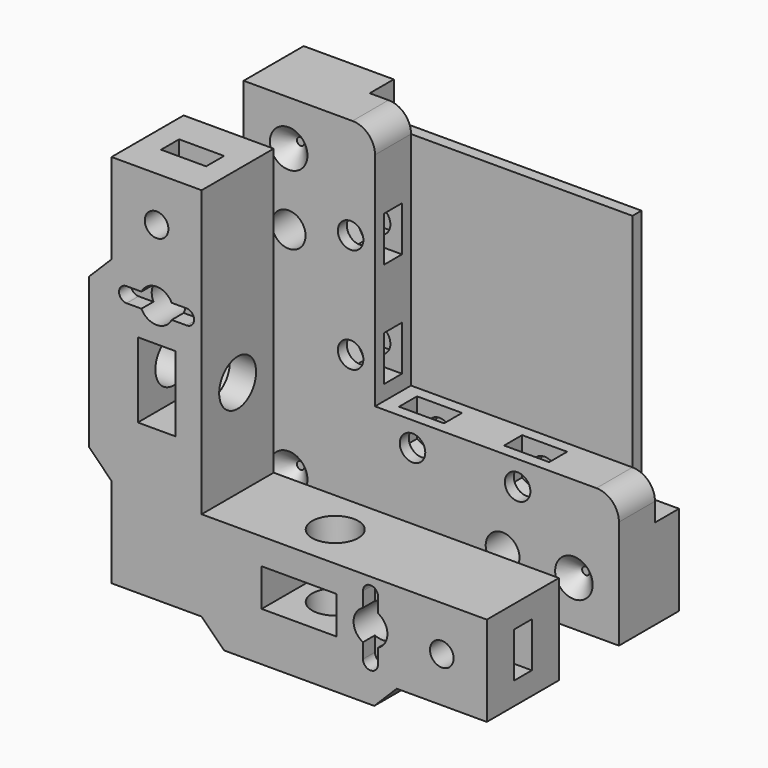
from build123d import *

# Parameters (mm, degrees)
PAD005_DEPTH         = 1.5
PAD004_DEPTH         = 2.5
PAD003_DEPTH         = 2.5
PAD_DEPTH            = 12
SKETCH004_R          = 2.25
POCKET_DEPTH         = 12.001
SKETCH006_R          = 3.075
POCKET002_DEPTH      = 13
SKETCH007_R          = 1.575
POCKET003_DEPTH      = 12.001
SKETCH009_R          = 3.075
POCKET005_DEPTH      = 3.001
POCKET005_DEPTH_BACK = 50.001
SKETCH015_R          = 4
PAD008_DEPTH         = 5
PAD008_TAPER         = 37
POCKET006_DEPTH      = 2
SKETCH002_W          = 35
SKETCH002_H          = 35
PAD001_DEPTH         = 1.5
PAD006_DEPTH         = 4
PAD007_DEPTH         = 1.5
PAD002_DEPTH         = 10
SKETCH005_R          = 2.25
POCKET001_DEPTH      = 10.001
BOX_W                = 50
BOX_H                = 50
BOX_DEPTH            = 2
SKETCH008_R          = 2.5
POCKET004_DEPTH      = 2
POCKET004_TAPER      = 45
SKETCH016_R          = 1.7
HOLE_DEPTH           = 6
HOLE_TIPS_R          = 1.7
SKETCH017_R          = 0.55
PAD009_DEPTH         = 4
POCKET007_DEPTH      = 2


with BuildPart() as thumbscrewnutcapturecutbody:
    # Sketch012 → Pad005 (new body, symmetric)
    with BuildSketch(Plane.XZ.offset(11)):
        Polygon((3, 42.267949), (3, 60), (17.485281, 60), (60, 17.485281), (60, 3), (42.267949, 3), (40.535898, 6), (42.267949, 9), (45.732051, 9), (54, 9), (54, 15), (15, 54), (9, 54), (9, 42.267949), (6, 40.535898), align=None)
    extrude(amount=PAD005_DEPTH, both=True)


with BuildPart() as mountnutcapturecut2body:
    # Sketch011 → Pad004 (new body, symmetric)
    with BuildSketch(Plane.YZ.offset(6)):
        Polygon((-5.226497, 25), (-8.113249, 30), (-18.113249, 30), (-18.113249, 20), (-8.113249, 20), align=None)
    extrude(amount=PAD004_DEPTH, both=True)


with BuildPart() as mountnutcapturecut1body:
    # Sketch010 → Pad003 (new body, symmetric)
    with BuildSketch(Plane.XY.offset(6)):
        Polygon((30, -8.113249), (25, -5.226497), (20, -8.113249), (20, -18.113249), (30, -18.113249), align=None)
    extrude(amount=PAD003_DEPTH, both=True)


with BuildPart() as basebody:
    # Sketch001 (on DatumPlane) → Pad (new body)
    with BuildSketch(Plane.XZ.offset(5)):
        Polygon((0, 50), (12, 50), (12, 12), (50, 12), (50, 0), (38, 0), (35, -3), (15, -3), (12, 0), (0, 0), (0, 12), (-3, 15), (-3, 35), (0, 38), align=None)
    extrude(amount=PAD_DEPTH)

    # Sketch004 (on DatumPlane) → Pocket (cut, through all)
    with BuildSketch(Plane.XZ.offset(5)):
        with Locations((34.5, 6)):
            Circle(SKETCH004_R)
        with Locations((6, 34.5)):
            Circle(SKETCH004_R)
    extrude(amount=POCKET_DEPTH, mode=Mode.SUBTRACT)

    # Sketch006 → Pocket002 (cut, symmetric)
    with BuildSketch(Plane.XY):
        with Locations((25, -11)):
            Circle(SKETCH006_R)
    extrude(amount=POCKET002_DEPTH, both=True, mode=Mode.SUBTRACT)

    # Sketch007 (on DatumPlane) → Pocket003 (cut, through all)
    with BuildSketch(Plane.XZ.offset(5)):
        with Locations((44, 6)):
            Circle(SKETCH007_R)
        with Locations((6, 44)):
            Circle(SKETCH007_R)
    extrude(amount=POCKET003_DEPTH, mode=Mode.SUBTRACT)

    # Sketch009 → Pocket005 (cut, two sides)
    with BuildSketch(Plane.YZ) as pocket005_sk:
        with Locations((-11, 25)):
            Circle(SKETCH009_R)
    extrude(amount=-POCKET005_DEPTH, mode=Mode.SUBTRACT)
    extrude(pocket005_sk.sketch, amount=POCKET005_DEPTH_BACK, mode=Mode.SUBTRACT)

    # Boolean: cut ThumbscrewNutCaptureCutBody
    add(thumbscrewnutcapturecutbody.part, mode=Mode.SUBTRACT)

    # Boolean001: cut MountNutCaptureCut2Body
    add(mountnutcapturecut2body.part, mode=Mode.SUBTRACT)

    # Boolean002: cut MountNutCaptureCut1Body
    add(mountnutcapturecut1body.part, mode=Mode.SUBTRACT)

    # Sketch015 → Pad008 (join)
    with BuildSketch(Plane.XZ.offset(5)):
        with Locations((6, 6)):
            Circle(SKETCH015_R)
    extrude(amount=-PAD008_DEPTH, taper=PAD008_TAPER)

    # Sketch018 (on DatumPlane) → Pocket006 (cut)
    with BuildSketch(Plane.XZ.offset(17)):
        with BuildLine():
            ThreePointArc((35.5, 10), (34.5, 11), (33.5, 10))
            Line((33.5, 10), (33.5, 2))
            ThreePointArc((33.5, 2), (34.5, 1), (35.5, 2))
            Line((35.5, 2), (35.5, 10))
        make_face()
        with BuildLine():
            ThreePointArc((10, 33.5), (11, 34.5), (10, 35.5))
            Line((10, 35.5), (2, 35.5))
            ThreePointArc((2, 35.5), (1, 34.5), (2, 33.5))
            Line((2, 33.5), (10, 33.5))
        make_face()
    extrude(amount=-POCKET006_DEPTH, mode=Mode.SUBTRACT)


with BuildPart() as obj1:
    # Sketch002 → Pad001 (new body)
    with BuildSketch(Plane.XZ.offset(-11)):
        with Locations((29.5, 29.5)):
            Rectangle(SKETCH002_W, SKETCH002_H)
    extrude(amount=-PAD001_DEPTH)


with BuildPart() as setscrewbackplatecutbody:
    # Sketch013 → Pad006 (new body, symmetric)
    with BuildSketch(Plane.XZ.offset(-15)):
        with BuildLine():
            Line((19, 13.5), (19, 16))
            ThreePointArc((20.5, 17.5), (19.43934, 17.06066), (19, 16))
            Line((20.5, 17.5), (24.5, 17.5))
            ThreePointArc((26, 16), (25.56066, 17.06066), (24.5, 17.5))
            Line((26, 16), (26, 13.5))
            ThreePointArc((26, 13.5), (26.43934, 12.43934), (27.5, 12))
            Line((27.5, 12), (31.5, 12))
            ThreePointArc((31.5, 12), (32.56066, 12.43934), (33, 13.5))
            Line((33, 13.5), (33, 16))
            ThreePointArc((34.5, 17.5), (33.43934, 17.06066), (33, 16))
            Line((34.5, 17.5), (38.5, 17.5))
            ThreePointArc((40, 16), (39.56066, 17.06066), (38.5, 17.5))
            Line((40, 16), (40, 13.5))
            ThreePointArc((40, 13.5), (40.43934, 12.43934), (41.5, 12))
            Line((41.5, 12), (70, 12))
            Line((70, 12), (70, 23.387521))
            Line((70, 23.387521), (23.387521, 70))
            Line((23.387521, 70), (12, 70))
            Line((12, 70), (12, 41.5))
            ThreePointArc((12, 41.5), (12.43934, 40.43934), (13.5, 40))
            Line((13.5, 40), (16, 40))
            ThreePointArc((17.5, 38.5), (17.06066, 39.56066), (16, 40))
            Line((17.5, 38.5), (17.5, 34.5))
            ThreePointArc((16, 33), (17.06066, 33.43934), (17.5, 34.5))
            Line((16, 33), (13.5, 33))
            ThreePointArc((13.5, 33), (12.43934, 32.56066), (12, 31.5))
            Line((12, 31.5), (12, 27.5))
            ThreePointArc((12, 27.5), (12.43934, 26.43934), (13.5, 26))
            Line((13.5, 26), (16, 26))
            ThreePointArc((17.5, 24.5), (17.06066, 25.56066), (16, 26))
            Line((17.5, 24.5), (17.5, 20.5))
            ThreePointArc((16, 19), (17.06066, 19.43934), (17.5, 20.5))
            Line((16, 19), (13.5, 19))
            ThreePointArc((13.5, 19), (12.43934, 18.56066), (12, 17.5))
            Line((12, 17.5), (12, 13.5))
            ThreePointArc((11.221376, 12.229989), (11.789849, 12.755154), (12, 13.5))
            ThreePointArc((11.221376, 12.229989), (11.031264, 11.031264), (12.229989, 11.221376))
            ThreePointArc((13.5, 12), (12.755154, 11.789849), (12.229989, 11.221376))
            Line((13.5, 12), (17.5, 12))
            ThreePointArc((17.5, 12), (18.56066, 12.43934), (19, 13.5))
        make_face()
    extrude(amount=PAD006_DEPTH, both=True)


with BuildPart() as setscrewcapturecutbody:
    # Sketch014 → Pad007 (new body, symmetric)
    with BuildSketch(Plane.XZ.offset(-8)):
        Polygon((39.5, 19.5), (39.5, 12.517949), (36.5, 10.785898), (33.5, 12.517949), (33.5, 19.5), (25.5, 19.5), (25.5, 12.517949), (22.499998, 10.785898), (19.5, 12.517949), (19.5, 19.5), (12.517949, 19.5), (10.785898, 22.499998), (12.517949, 25.5), (19.5, 25.5), (19.5, 33.5), (12.517949, 33.5), (10.785898, 36.5), (12.517949, 39.5), (19.5, 39.5), align=None)
    extrude(amount=PAD007_DEPTH, both=True)


with BuildPart() as obj2:
    # Sketch003 (on DatumPlane) → Pad002 (new body)
    with BuildSketch(Plane.XZ.offset(-5)):
        with BuildLine():
            Line((0, 0), (50, 0))
            Line((50, 0), (50, 14.5))
            ThreePointArc((50, 14.5), (49.12132, 16.62132), (47, 17.5))
            Line((47, 17.5), (17.5, 17.5))
            Line((17.5, 17.5), (17.5, 47))
            ThreePointArc((17.5, 47), (16.62132, 49.12132), (14.5, 50))
            Line((14.5, 50), (0, 50))
            Line((0, 50), (0, 0))
        make_face()
    extrude(amount=-PAD002_DEPTH)

    # Sketch005 (on DatumPlane) → Pocket001 (cut, through all)
    with BuildSketch(Plane.XZ.offset(-5)):
        with Locations((34.5, 6)):
            Circle(SKETCH005_R)
        with Locations((6, 34.5)):
            Circle(SKETCH005_R)
    extrude(amount=-POCKET001_DEPTH, mode=Mode.SUBTRACT)

    # Box → Box (cut)
    with BuildSketch(Plane(origin=(12, 13, 12), x_dir=(1, 0, 0), z_dir=(0, -1, 0))):
        with Locations((25, 25)):
            Rectangle(BOX_W, BOX_H)
    extrude(amount=BOX_DEPTH, mode=Mode.SUBTRACT)

    # Sketch008 (on DatumPlane) → Pocket004 (cut)
    with BuildSketch(Plane.XZ.offset(-5)):
        with Locations((6, 44)):
            Circle(SKETCH008_R)
        with Locations((6, 6)):
            Circle(SKETCH008_R)
        with Locations((44, 6)):
            Circle(SKETCH008_R)
    extrude(amount=-POCKET004_DEPTH, taper=POCKET004_TAPER, mode=Mode.SUBTRACT)

    # Boolean003: cut SetscrewBackplateCutBody
    add(setscrewbackplatecutbody.part, mode=Mode.SUBTRACT)

    # Boolean004: cut SetscrewCaptureCutBody
    add(setscrewcapturecutbody.part, mode=Mode.SUBTRACT)

    # Sketch016 (on DatumPlane) → Hole (cut)
    with BuildSketch(Plane.XZ.offset(-5)):
        with Locations((36.5, 14.25)):
            Circle(SKETCH016_R)
        with Locations((22.5, 14.25)):
            Circle(SKETCH016_R)
        with Locations((14.25, 22.5)):
            Circle(SKETCH016_R)
        with Locations((14.25, 36.5)):
            Circle(SKETCH016_R)
    extrude(amount=-HOLE_DEPTH, mode=Mode.SUBTRACT)

    # Hole tips → Hole tip 1 section 0
    with BuildSketch(Plane.XZ.offset(-11), mode=Mode.PRIVATE) as hole_tip_1_s0:
        with Locations((36.5, 14.25)):
            Circle(HOLE_TIPS_R)
    loft([hole_tip_1_s0.sketch, Vertex(36.5, 12.021463, 14.25)], mode=Mode.SUBTRACT)

    # Hole tips → Hole tip 2 section 0
    with BuildSketch(Plane.XZ.offset(-11), mode=Mode.PRIVATE) as hole_tip_2_s0:
        with Locations((22.5, 14.25)):
            Circle(HOLE_TIPS_R)
    loft([hole_tip_2_s0.sketch, Vertex(22.5, 12.021463, 14.25)], mode=Mode.SUBTRACT)

    # Hole tips → Hole tip 3 section 0
    with BuildSketch(Plane.XZ.offset(-11), mode=Mode.PRIVATE) as hole_tip_3_s0:
        with Locations((14.25, 22.5)):
            Circle(HOLE_TIPS_R)
    loft([hole_tip_3_s0.sketch, Vertex(14.25, 12.021463, 22.5)], mode=Mode.SUBTRACT)

    # Hole tips → Hole tip 4 section 0
    with BuildSketch(Plane.XZ.offset(-11), mode=Mode.PRIVATE) as hole_tip_4_s0:
        with Locations((14.25, 36.5)):
            Circle(HOLE_TIPS_R)
    loft([hole_tip_4_s0.sketch, Vertex(14.25, 12.021463, 36.5)], mode=Mode.SUBTRACT)

    # Sketch017 (on DatumPlane) → Pad009 (join)
    with BuildSketch(Plane.XZ.offset(-15)):
        with Locations((38.9, 16.8)):
            Circle(SKETCH017_R)
        with Locations((34.1, 16.8)):
            Circle(SKETCH017_R)
        with Locations((24.9, 16.8)):
            Circle(SKETCH017_R)
        with Locations((20.1, 16.8)):
            Circle(SKETCH017_R)
        with Locations((16.8, 20.1)):
            Circle(SKETCH017_R)
        with Locations((16.8, 24.9)):
            Circle(SKETCH017_R)
        with Locations((16.8, 34.1)):
            Circle(SKETCH017_R)
        with Locations((16.8, 38.9)):
            Circle(SKETCH017_R)
    extrude(amount=PAD009_DEPTH)

    # Sketch019 (on DatumPlane) → Pocket007 (cut)
    with BuildSketch(Plane.XZ.offset(-15)):
        with BuildLine():
            ThreePointArc((35.5, 10), (34.5, 11), (33.5, 10))
            Line((33.5, 10), (33.5, 2))
            ThreePointArc((33.5, 2), (34.5, 1), (35.5, 2))
            Line((35.5, 2), (35.5, 10))
        make_face()
        with BuildLine():
            ThreePointArc((10, 33.5), (11, 34.5), (10, 35.5))
            Line((10, 35.5), (2, 35.5))
            ThreePointArc((2, 35.5), (1, 34.5), (2, 33.5))
            Line((2, 33.5), (10, 33.5))
        make_face()
    extrude(amount=POCKET007_DEPTH, mode=Mode.SUBTRACT)


solid = Compound([basebody.part, obj1.part, obj2.part])
